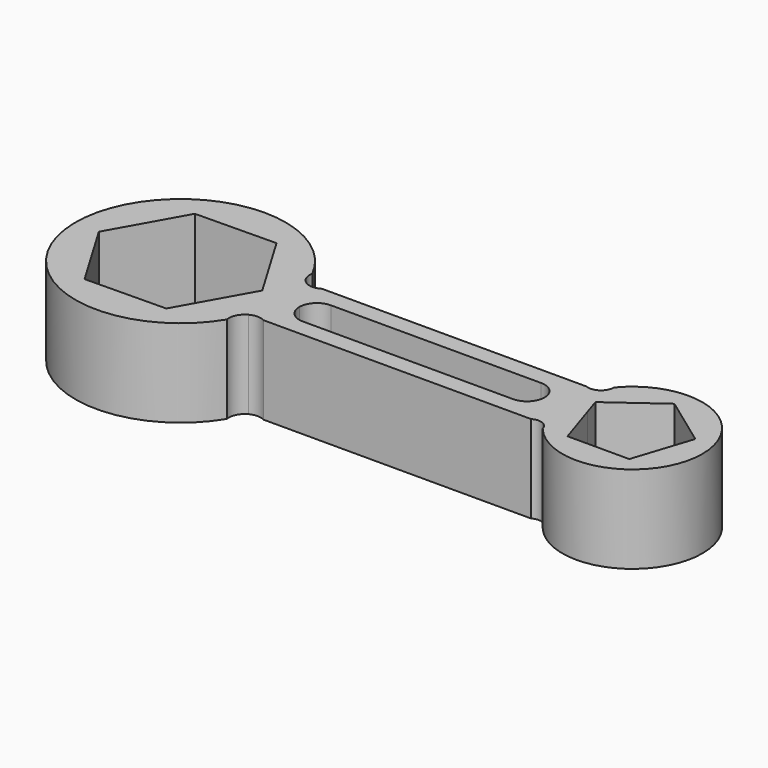
from build123d import *

# Parameters (mm, degrees)
F1_DEPTH = 25


with BuildPart() as f1:
    # F0 (on Top) → F1 (new body)
    with BuildSketch(Plane.XY):
        with BuildLine():
            ThreePointArc((-15.427515, 12.727599), (-16.04614, 10.656931), (-17.714799, 9.283637))
            ThreePointArc((-17.714799, 9.283637), (-19.982877, -0.827422), (-16.886668, -10.716363))
            ThreePointArc((-16.886668, -10.716363), (-15.958162, -11.577658), (-15.427515, -12.727599))
            ThreePointArc((-15.427515, -12.727599), (20, 0), (-15.427515, 12.727599))
        make_face()
        Polygon((-14.265848, 4.635255), (0, 15), (14.265848, 4.635255), (8.816779, -12.135255), (-8.816779, -12.135255), (-12.759762, 0), align=None, mode=Mode.SUBTRACT)
        with BuildLine():
            ThreePointArc((-96.018225, 9.283637), (-98.245399, 8.624522), (-100.472573, 9.283637))
            ThreePointArc((-100.472573, 9.283637), (-99.009624, -0.759849), (-100.979301, -10.716363))
            ThreePointArc((-100.979301, -10.716363), (-98.835663, -10.182758), (-96.692026, -10.716363))
            Line((-96.692026, -10.716363), (-20.312127, -10.716363))
            ThreePointArc((-20.312127, -10.716363), (-18.599397, -10.230746), (-16.886668, -10.716363))
            ThreePointArc((-16.886668, -10.716363), (-19.982877, -0.827422), (-17.714799, 9.283637))
            ThreePointArc((-17.714799, 9.283637), (-19.132574, 9.001647), (-20.55035, 9.283637))
            Line((-20.55035, 9.283637), (-96.018225, 9.283637))
        make_face()
        with BuildLine():
            ThreePointArc((-94.5, -0.716363), (-93.035534, 2.81917), (-89.5, 4.283637))
            Line((-89.5, 4.283637), (-29.5, 4.283637))
            ThreePointArc((-29.5, 4.283637), (-25.964466, 2.81917), (-24.5, -0.716363))
            ThreePointArc((-24.5, -0.716363), (-25.964466, -4.251897), (-29.5, -5.716363))
            Line((-29.5, -5.716363), (-89.5, -5.716363))
            ThreePointArc((-89.5, -5.716363), (-93.035534, -4.251897), (-94.5, -0.716363))
        make_face(mode=Mode.SUBTRACT)
        with BuildLine():
            ThreePointArc((-100.472573, 9.283637), (-102.027251, 11.153148), (-102.246909, 13.574687))
            ThreePointArc((-102.246909, 13.574687), (-158.978882, 1.125462), (-103.340016, -15.542369))
            ThreePointArc((-103.340016, -15.542369), (-102.94316, -12.746104), (-100.979301, -10.716363))
            ThreePointArc((-100.979301, -10.716363), (-99.009624, -0.759849), (-100.472573, 9.283637))
        make_face()
        Polygon((-140.802781, 19.850131), (-117.710673, 20.146574), (-105.907892, 0.296443), (-106.074007, 0), (-117.197219, -19.850131), (-140.289327, -20.146574), (-152.092108, -0.296443), align=None, mode=Mode.SUBTRACT)
    extrude(amount=F1_DEPTH)


solid = f1.part
